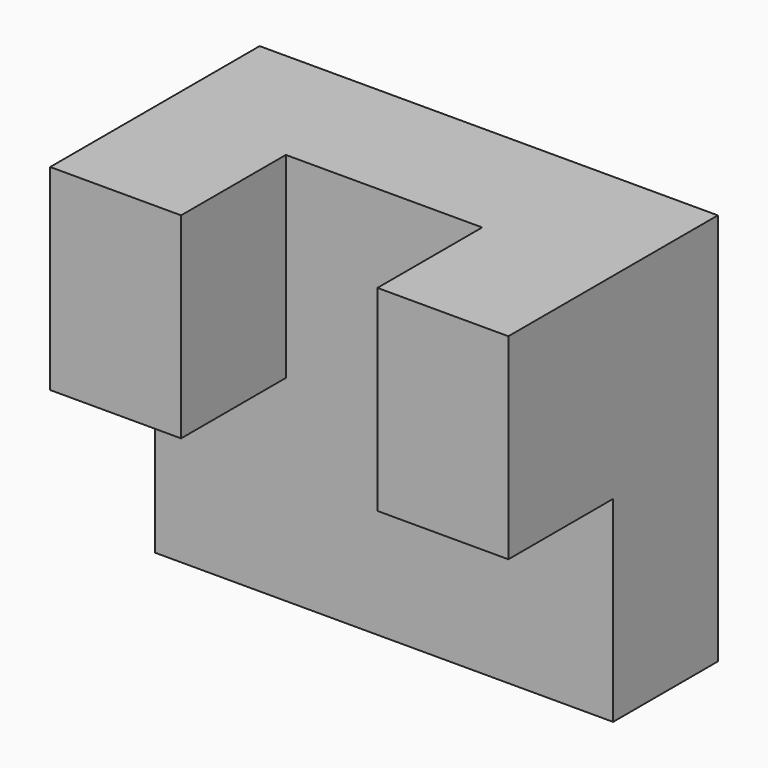
from build123d import *

# Parameters (mm, degrees)
F0_W     = 177.8
F0_H     = 152.4
F1_DEPTH = 50.8
F2_W     = 50.8
F2_H     = 76.2
F3_DEPTH = 50.8


with BuildPart() as f1:
    # F0 (on Front) → F1 (new body)
    with BuildSketch(Plane.XZ):
        with Locations((1.993671, 3.431669)):
            Rectangle(F0_W, F0_H)
    extrude(amount=F1_DEPTH)

    # F2 (on face) → F3 (join)
    with BuildSketch(Plane.XZ.offset(50.8)):
        with Locations((-61.506329, 41.531669)):
            Rectangle(F2_W, F2_H)
        with Locations((65.493671, 41.531669)):
            Rectangle(F2_W, F2_H)
    extrude(amount=F3_DEPTH)


solid = f1.part
